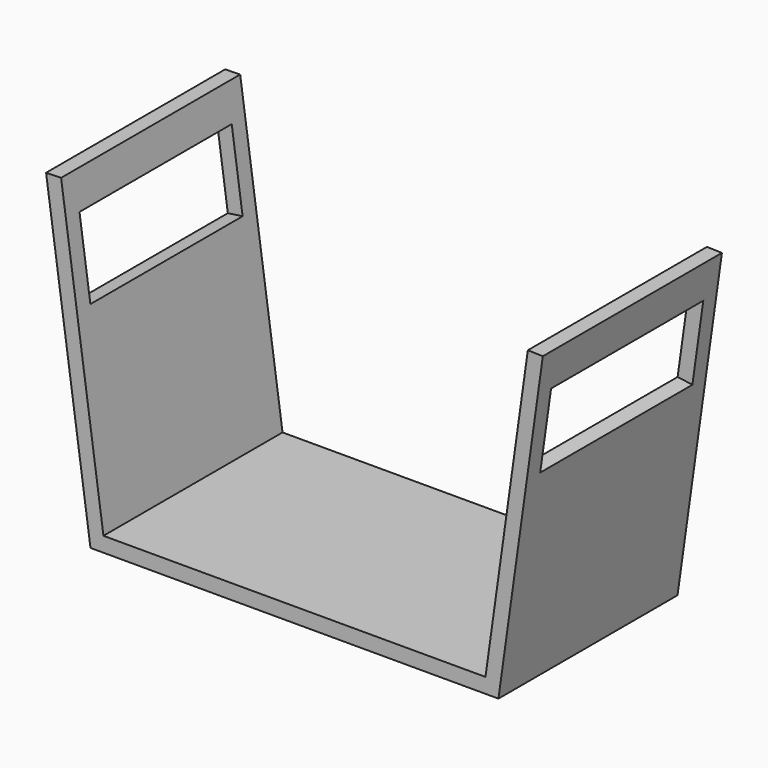
from build123d import *

# Parameters (mm, degrees)
F1_DEPTH = 30
F2_W     = 25.5
F2_H     = 10.5
F3_DEPTH = 5
F4_W     = 25.5
F4_H     = 10.5
F5_DEPTH = 5


with BuildPart() as f1:
    # F0 (on Front) → F1 (new body)
    with BuildSketch(Plane.XZ):
        Polygon((0.0016284716, 2), (-0.0016284716, 2), (-25.5983715284, 2), (-31.2740161038, 42.3843095671), (-33.2866138074, 42.3340932619), (-27.336945004, 0), (0, 0), (27.336945004, 0), (33.2866138074, 42.3340932619), (31.2740161038, 42.3843095671), (25.5983715284, 2), align=None)
    extrude(amount=F1_DEPTH)

    # F2 (on face) → F3 (cut)
    with BuildSketch(Plane(origin=(26.8074515602, 0, -3.7675416185), x_dir=(0, 1, 0), z_dir=(0.9902680687, 0, -0.139173101))):
        with Locations((-15, 36.3047020404)):
            Rectangle(F2_W, F2_H)
    extrude(amount=-F3_DEPTH, mode=Mode.SUBTRACT)

    # F4 (on face) → F5 (cut)
    with BuildSketch(Plane(origin=(-26.8074515602, 0, -3.7675416185), x_dir=(0, -1, 0), z_dir=(-0.9902680687, 0, -0.139173101))):
        with Locations((15, 36.3047020404)):
            Rectangle(F4_W, F4_H)
    extrude(amount=-F5_DEPTH, mode=Mode.SUBTRACT)


solid = f1.part
